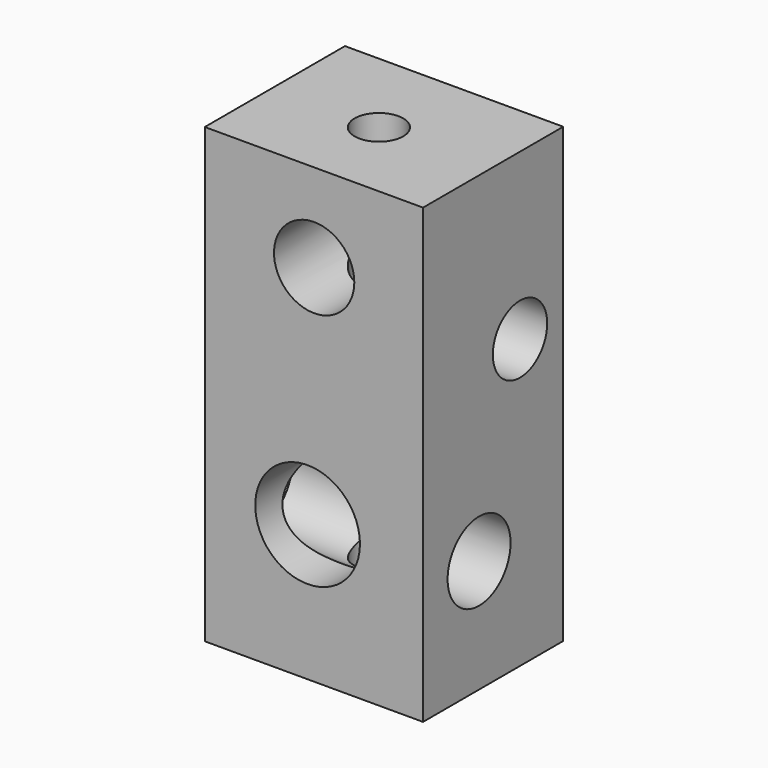
from build123d import *

# Parameters (mm, degrees)
F0_W     = 48.24812
F0_H     = 100.085393
F1_DEPTH = 38.735
F2_R     = 8.875977
F3_DEPTH = 72.39
F4_R     = 11.577097
F5_DEPTH = 81.915
F6_R     = 7.510162
F6_R_2   = 8.700388
F7_DEPTH = 74.295
F8_R     = 5.377664
F9_DEPTH = 137.795


with BuildPart() as f1:
    # F0 (on Front) → F1 (new body)
    with BuildSketch(Plane.XZ):
        with Locations((24.12406, 50.042696)):
            Rectangle(F0_W, F0_H)
    extrude(amount=F1_DEPTH)

    # F2 (on face) → F3 (cut)
    with BuildSketch(Plane.XZ.offset(38.735)):
        with Locations((24.177499, 80.580726)):
            Circle(F2_R)
    extrude(amount=-F3_DEPTH, mode=Mode.SUBTRACT)

    # F4 (on face) → F5 (cut)
    with BuildSketch(Plane.XZ.offset(38.735)):
        with Locations((22.72643, 30.099884)):
            Circle(F4_R)
    extrude(amount=-F5_DEPTH, mode=Mode.SUBTRACT)

    # F6 (on face) → F7 (cut)
    with BuildSketch(Plane.YZ.offset(48.24812)):
        with Locations((-11.938325, 63.61071)):
            Circle(F6_R)
        with Locations((-23.248304, 25.008034)):
            Circle(F6_R_2)
    extrude(amount=-F7_DEPTH, mode=Mode.SUBTRACT)

    # F8 (on face) → F9 (cut)
    with BuildSketch(Plane.XY.offset(100.085393)):
        with Locations((23.553871, -20.061549)):
            Circle(F8_R)
    extrude(amount=-F9_DEPTH, mode=Mode.SUBTRACT)


solid = f1.part
